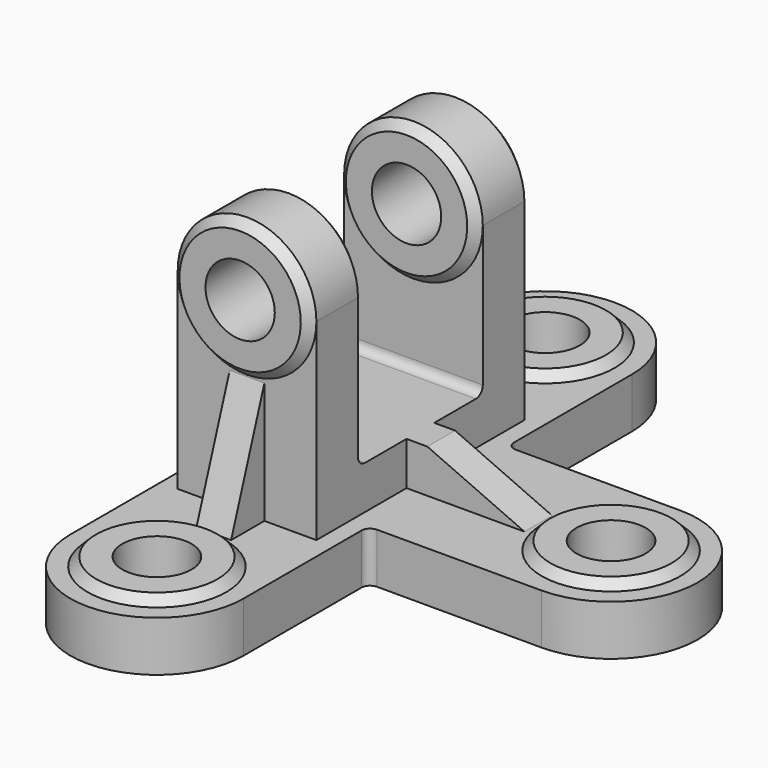
from build123d import *

# Parameters (mm, degrees)
PAD_DEPTH       = 14.5
PAD001_DEPTH    = 20
PAD002_DEPTH    = 5
PAD003_DEPTH    = 5
SKETCH009_R     = 10
POCKET_DEPTH    = 135.001
SKETCH010_R     = 10
POCKET001_DEPTH = 17.001
FILLET_R        = 2.5


with BuildPart() as part:
    # Sketch → Pad (new body)
    with BuildSketch(Plane.XY):
        with BuildLine():
            Line((-25, 70), (-25, -70))
            ThreePointArc((-25, -70), (0, -95), (25, -70))
            Line((25, -25), (25, -70))
            Line((75, -25), (25, -25))
            ThreePointArc((75, -25), (100, 0), (75, 25))
            Line((75, 25), (25, 25))
            Line((25, 25), (25, 70))
            ThreePointArc((25, 70), (0, 95), (-25, 70))
        make_face()
    extrude(amount=PAD_DEPTH)

    # Sketch001 → Pad001 (join, symmetric)
    with BuildSketch(Plane.YZ):
        Polygon((-37.5, 0), (-37.5, 70), (-22.5, 70), (-22.5, 27), (22.5, 27), (22.5, 70), (37.5, 70), (37.5, 0), align=None)
    extrude(amount=PAD001_DEPTH, both=True)

    # Sketch002 → Pad002 (join, symmetric)
    with BuildSketch(Plane.YZ):
        Polygon((-37.5, 49.5), (-37.5, 14.5), (-49.5, 14.5), align=None)
        Polygon((37.5, 49.5), (37.5, 14.5), (49.5, 14.5), align=None)
    extrude(amount=PAD002_DEPTH, both=True)

    # Sketch003 → Pad003 (join, symmetric)
    with BuildSketch(Plane.XZ):
        Polygon((20, 14.5), (20, 27), (26, 27), (54, 14.5), align=None)
    extrude(amount=PAD003_DEPTH, both=True)

    # Sketch004 → Revolution (revolve)
    with BuildSketch(Plane.YZ):
        Polygon((-40, 70), (-40, 87.5), (-37.5, 90), (-22.5, 90), (-20, 87.5), (-20, 70), align=None)
    revolve(axis=Axis((0, -20, 70), (0, 1, 0)))

    # Sketch005 → Revolution001 (revolve)
    with BuildSketch(Plane.YZ):
        Polygon((20, 70), (20, 87.5), (22.5, 90), (37.5, 90), (40, 87.5), (40, 70), align=None)
    revolve(axis=Axis((0, 20, 70), (0, -1, 0)))

    # Sketch006 → Revolution002 (revolve)
    with BuildSketch(Plane.YZ):
        Polygon((-90, 14.5), (-70, 14.5), (-70, 17), (-87.5, 17), align=None)
    revolve(axis=Axis((0, -70, 14.5), (0, 0, -1)))

    # Sketch007 → Revolution003 (revolve)
    with BuildSketch(Plane.YZ):
        Polygon((50, 14.5), (70, 14.5), (70, 17), (52.5, 17), align=None)
    revolve(axis=Axis((0, 70, 14.5), (0, 0, -1)))

    # Sketch008 → Revolution004 (revolve)
    with BuildSketch(Plane.XZ):
        Polygon((55, 14.5), (75, 14.5), (75, 17), (57.5, 17), align=None)
    revolve(axis=Axis((75, 0, 14.5), (0, 0, -1)))

    # Sketch009 (on Face38 of Revolution004) → Pocket (cut, through all)
    with BuildSketch(Plane.XZ.offset(40)):
        with Locations((0, 70)):
            Circle(SKETCH009_R)
    extrude(amount=-POCKET_DEPTH, mode=Mode.SUBTRACT)

    # Sketch010 (on Face37 of Pocket) → Pocket001 (cut, through all)
    with BuildSketch(Plane.XY.offset(17)):
        with Locations((0, 70)):
            Circle(SKETCH010_R)
        with Locations((75, 0)):
            Circle(SKETCH010_R)
        with Locations((0, -70)):
            Circle(SKETCH010_R)
    extrude(amount=-POCKET001_DEPTH, mode=Mode.SUBTRACT)

    # Fillet
    fillet_edges = [part.edges().sort_by_distance(p)[0] for p in [
        (25, -25, 7.25),
        (25, 25, 7.25),
        (0, 22.5, 27),
        (0, -22.5, 27),
    ]]
    fillet(fillet_edges, radius=FILLET_R)


solid = part.part
